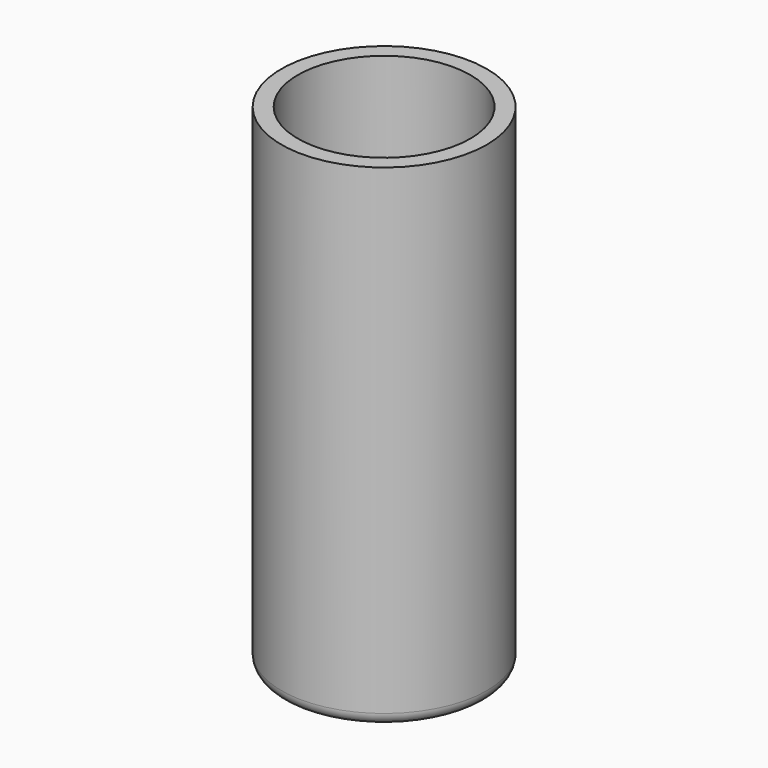
from build123d import *

# Parameters (mm, degrees)
F0_R     = 25
F1_DEPTH = 120
F2_R     = 21
F3_DEPTH = 100
F4_R     = 21
F5_DEPTH = 10
F6_R     = 3


with BuildPart() as f1:
    # F0 (on Top) → F1 (new body)
    with BuildSketch(Plane.XY):
        Circle(F0_R)
    extrude(amount=F1_DEPTH)

    # F2 (on face) → F3 (cut)
    with BuildSketch(Plane.XY.offset(120)):
        Circle(F2_R)
    extrude(amount=-F3_DEPTH, mode=Mode.SUBTRACT)

    # F4 (on face) → F5 (cut)
    with BuildSketch(Plane(origin=(0, 0, 0), x_dir=(1, 0, 0), z_dir=(0, 0, -1))):
        Circle(F4_R)
    extrude(amount=-F5_DEPTH, mode=Mode.SUBTRACT)

    # F6
    f6_edges = [f1.edges().sort_by_distance(p)[0] for p in [
        (-25, 0, 0),
        (-21, 0, 10),
    ]]
    fillet(f6_edges, radius=F6_R)


solid = f1.part
